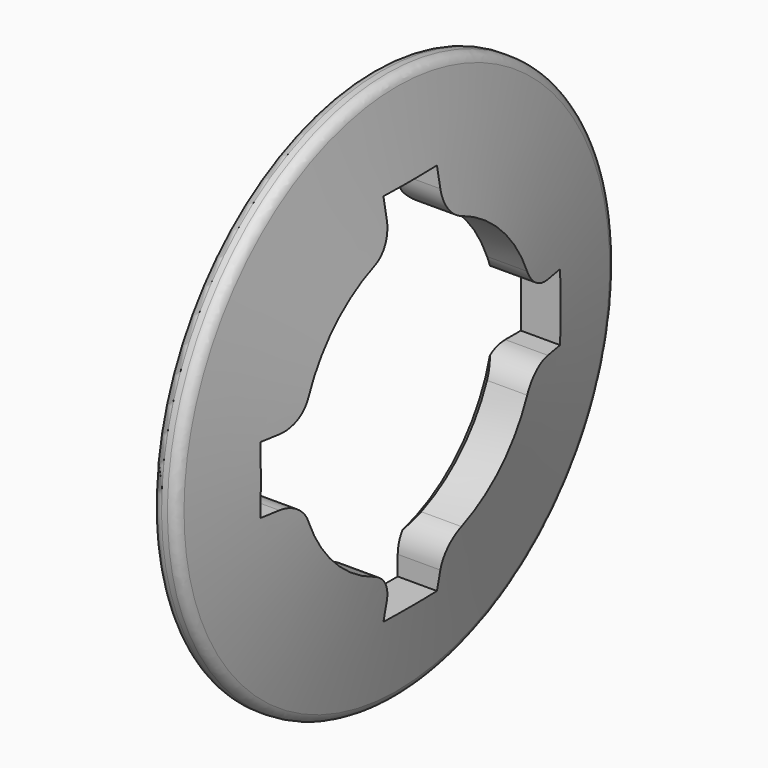
from build123d import *

# Parameters (mm, degrees)
F3_DEPTH = 25
F4_SIZE  = 1
F5_R     = 5
F6_R     = 1.5


with BuildPart() as f1:
    # F0 (on Front) → F1 (revolve)
    with BuildSketch(Plane.XZ):
        Polygon((0, 22), (-3.3502126335, 41), (-7, 41), (-7, 22), align=None)
    revolve(axis=Axis((-11.3754170015, 0, 0), (-1, 0, 0)))

    # F2 (on Right) → F3 (cut)
    with BuildSketch(Plane.YZ):
        with BuildLine():
            Line((5, 21.4242852856), (5, 28))
            Line((5, 28), (0, 28))
            Line((0, 28), (-5, 28))
            Line((-5, 28), (-5, 21.4242852856))
            ThreePointArc((-5, 21.4242852856), (0, 22), (5, 21.4242852856))
        make_face()
        with BuildLine():
            Line((-27.9999999801, -5.0000001113), (-21.4242852658, -5.0000000852))
            ThreePointArc((-21.4242852658, -5.0000000852), (-22, -8.74e-08), (-21.4242853055, 4.9999999148))
            Line((-21.4242853055, 4.9999999148), (-28.0000000199, 4.9999998887))
            Line((-28.0000000199, 4.9999998887), (-28, -1.113e-07))
            Line((-28, -1.113e-07), (-27.9999999801, -5.0000001113))
        make_face()
        with BuildLine():
            Line((5.0000002226, -27.9999999603), (5.0000001703, -21.4242852459))
            ThreePointArc((5.0000001703, -21.4242852459), (1.749e-07, -22), (-4.9999998297, -21.4242853254))
            Line((-4.9999998297, -21.4242853254), (-4.9999997774, -28.0000000397))
            Line((-4.9999997774, -28.0000000397), (2.226e-07, -28))
            Line((2.226e-07, -28), (5.0000002226, -27.9999999603))
        make_face()
        with BuildLine():
            Line((27.9999999404, 5.0000003339), (21.424285226, 5.0000002555))
            ThreePointArc((21.424285226, 5.0000002555), (22, 2.623e-07), (21.4242853453, -4.9999997445))
            Line((21.4242853453, -4.9999997445), (28.0000000596, -4.9999996661))
            Line((28.0000000596, -4.9999996661), (28, 3.339e-07))
            Line((28, 3.339e-07), (27.9999999404, 5.0000003339))
        make_face()
    extrude(amount=-F3_DEPTH, mode=Mode.SUBTRACT)

    # F4
    f4_edges = [f1.edges().sort_by_distance(p)[0] for p in [
        (-7, 15.556349, 15.556349),
        (-7, -15.556349, 15.556349),
        (-7, -15.556349, -15.556349),
        (-7, 15.556349, -15.556349),
    ]]
    chamfer(f4_edges, length=F4_SIZE)

    # F5
    f5_edges = [f1.edges().sort_by_distance(p)[0] for p in [
        (-3, -5, -21.424285),
        (-3, 5, -21.424285),
        (-3, 21.424285, -5),
        (-3, 21.424285, 5),
        (-3, 5, 21.424285),
        (-3, -5, 21.424285),
        (-3, -21.424285, 5),
        (-3, -21.424285, -5),
    ]]
    fillet(f5_edges, radius=F5_R)

    # F6
    f6_edges = [f1.edges().sort_by_distance(p)[0] for p in [
        (-3.350213, 0, -41),
        (-7, 0, -41),
    ]]
    fillet(f6_edges, radius=F6_R)


solid = f1.part
